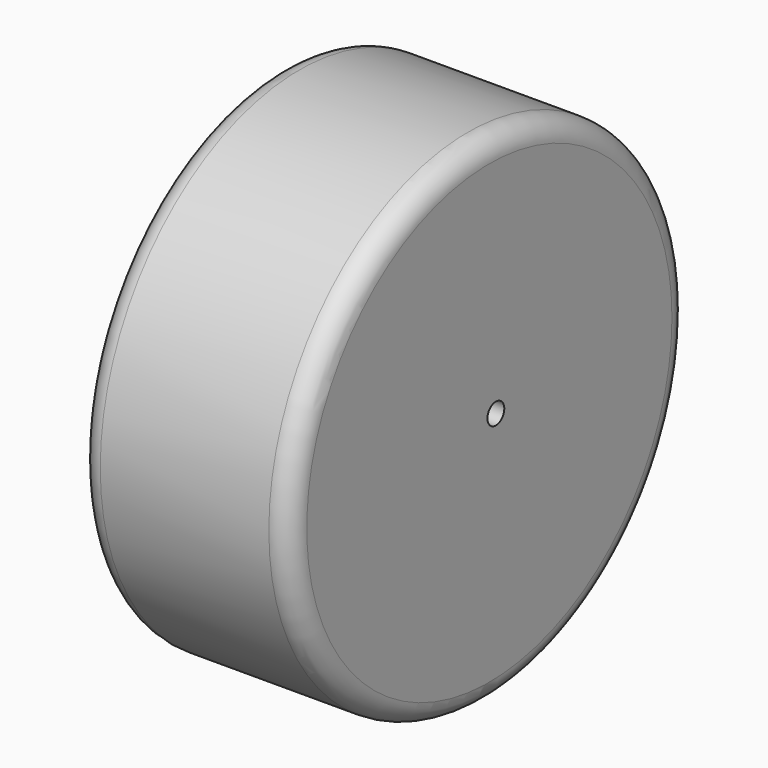
from build123d import *

# Parameters (mm, degrees)
SKETCH_R        = 35.5
PAD_DEPTH       = 30
SKETCH001_R     = 24
POCKET_DEPTH    = 25
SKETCH002_R     = 8
PAD001_DEPTH    = 16
POCKET001_DEPTH = 2.5
SKETCH004_R     = 1.5
POCKET002_DEPTH = 25
FILLET_R        = 3
FILLET001_R     = 3


with BuildPart() as part:
    # Sketch → Pad (new body)
    with BuildSketch(Plane.YZ):
        with Locations((-2.086398, 2.086246)):
            Circle(SKETCH_R)
    extrude(amount=PAD_DEPTH)

    # Sketch001 (on Face2 of Pad) → Pocket (cut)
    with BuildSketch(Plane(origin=(0, 0, 0), x_dir=(0, 1, 0), z_dir=(-1, 0, 0))):
        with Locations((-1.664763, -2.119737)):
            Circle(SKETCH001_R)
    extrude(amount=-POCKET_DEPTH, mode=Mode.SUBTRACT)

    # Sketch002 (on Face5 of Pocket) → Pad001 (join)
    with BuildSketch(Plane(origin=(25, 0, 0), x_dir=(0, 1, 0), z_dir=(-1, 0, 0))):
        with Locations((-1.350817, -2.732668)):
            Circle(SKETCH002_R)
    extrude(amount=PAD001_DEPTH)

    # Sketch003 (on Face7 of Pad001) → Pocket001 (cut)
    with BuildSketch(Plane(origin=(9, 0, 0), x_dir=(0, 1, 0), z_dir=(-1, 0, 0))):
        Polygon((-1.111872, 4.248012), (-7.222761, 0.700721), (-7.206161, -6.365109), (-1.078672, -9.883648), (5.032216, -6.336357), (5.015616, 0.729474), align=None)
    extrude(amount=-POCKET001_DEPTH, mode=Mode.SUBTRACT)

    # Sketch004 (on Face14 of Pocket001) → Pocket002 (cut)
    with BuildSketch(Plane(origin=(11.5, 0, 0), x_dir=(0, 1, 0), z_dir=(-1, 0, 0))):
        with Locations((-0.927213, -2.793039)):
            Circle(SKETCH004_R)
    extrude(amount=-POCKET002_DEPTH, mode=Mode.SUBTRACT)

    # Fillet
    fillet_edges = [part.edges().sort_by_distance(p)[0] for p in [
        (0, -37.586398, 2.086246),
    ]]
    fillet(fillet_edges, radius=FILLET_R)

    # Fillet001
    fillet001_edges = [part.edges().sort_by_distance(p)[0] for p in [
        (30, -37.586398, 2.086246),
    ]]
    fillet(fillet001_edges, radius=FILLET001_R)


solid = part.part
